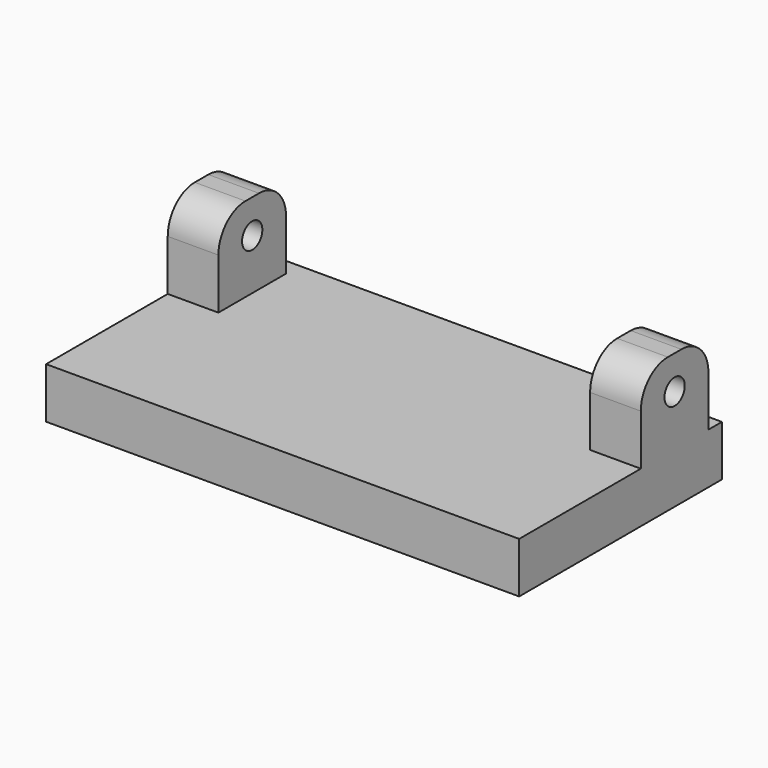
from build123d import *

# Parameters (mm, degrees)
F0_W     = 28
F0_H     = 30
F1_DEPTH = 6
F2_W     = 6
F2_H     = 10
F3_DEPTH = 10
F4_R     = 4
F5_R     = 1.5
F6_DEPTH = 28.001


with BuildPart() as f1:
    # F0 (on Top) → F1 (new body)
    with BuildSketch(Plane.XY):
        with Locations((14, 0)):
            Rectangle(F0_W, F0_H)
    extrude(amount=F1_DEPTH)

    # F2 (on face) → F3 (join)
    with BuildSketch(Plane.XY.offset(6)):
        with Locations((25, 8)):
            Rectangle(F2_W, F2_H)
    extrude(amount=F3_DEPTH)

    # F4
    f4_edges = [f1.edges().sort_by_distance(p)[0] for p in [
        (25, 3, 16),
        (25, 13, 16),
    ]]
    fillet(f4_edges, radius=F4_R)

    # F5 (on face) → F6 (cut, through all)
    with BuildSketch(Plane.YZ.offset(28)):
        with Locations((8, 12)):
            Circle(F5_R)
    extrude(amount=-F6_DEPTH, mode=Mode.SUBTRACT)

    # F7: F1 across face


with BuildPart() as f1_1:
    add(f1.part)
    add(f1.part.mirror(Plane(origin=(0, 0, 3), x_dir=(0, -1, 0), z_dir=(-1, 0, 0))))


with BuildPart() as f8_1:
    # F8: copy of F1
    add(f1_1.part)


solid = Compound([f1_1.part, f8_1.part])
